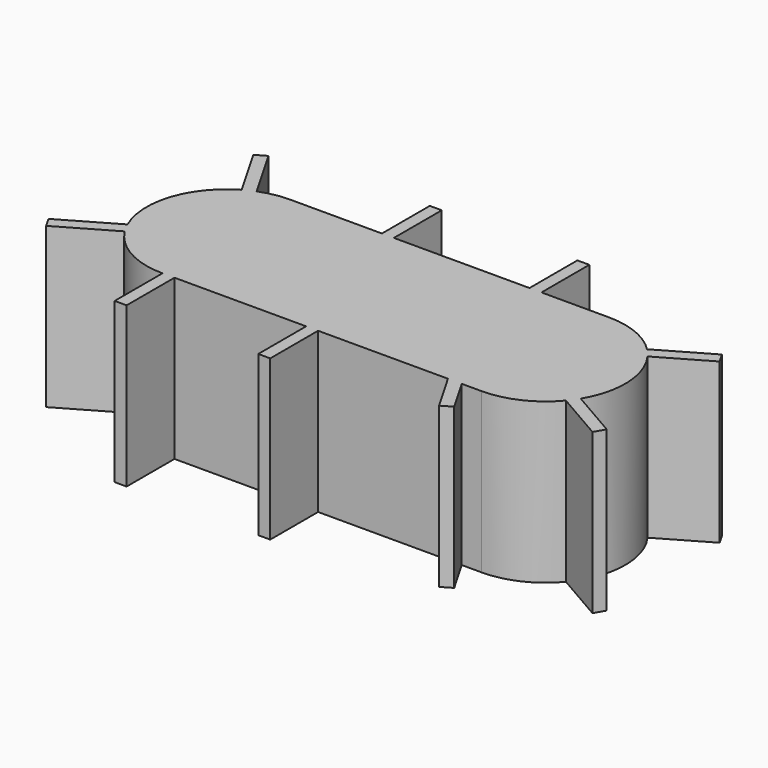
from build123d import *

# Parameters (mm, degrees)
BOX028_W               = 8
BOX028_H               = 4
BOX028_DEPTH           = 4
CYLINDER011_R          = 2
CYLINDER011_DEPTH      = 4
CYLINDER010_R          = 2
CYLINDER010_DEPTH      = 4
BOX019_W               = 0.3
BOX019_H               = 3.5
BOX019_DEPTH           = 4
BOX019_PLACEMENT_ANGLE = 240
BOX020_W               = 0.3
BOX020_H               = 3.5
BOX020_DEPTH           = 4
BOX020_PLACEMENT_ANGLE = 120
BOX021_W               = 0.3
BOX021_H               = 3.5
BOX021_DEPTH           = 4
BOX021_PLACEMENT_ANGLE = 120
BOX022_W               = 0.3
BOX022_H               = 3.5
BOX022_DEPTH           = 4
BOX023_W               = 0.3
BOX023_H               = 3.5
BOX023_DEPTH           = 4
BOX023_PLACEMENT_ANGLE = 30
BOX024_W               = 0.3
BOX024_H               = 3.5
BOX024_DEPTH           = 4
BOX024_PLACEMENT_ANGLE = 30
BOX025_W               = 0.3
BOX025_H               = 3.5
BOX025_DEPTH           = 4
BOX027_W               = 0.3
BOX027_H               = 3.5
BOX027_DEPTH           = 4
BOX026_W               = 0.3
BOX026_H               = 3.5
BOX026_DEPTH           = 4


with BuildPart() as cube028:
    # Box028 → Box028 (new body)
    with BuildSketch(Plane(origin=(0, -2, 0), x_dir=(1, 0, 0), z_dir=(0, 0, 1))):
        with Locations((4, 2)):
            Rectangle(BOX028_W, BOX028_H)
    extrude(amount=BOX028_DEPTH)


with BuildPart() as cylinder011:
    # Cylinder011 → Cylinder011 (new body)
    with BuildSketch(Plane(origin=(8, 0, 0), x_dir=(1, 0, 0), z_dir=(0, 0, 1))):
        Circle(CYLINDER011_R)
    extrude(amount=CYLINDER011_DEPTH)


with BuildPart() as fusion010:
    # Cylinder010 → Cylinder010 (new body)
    with BuildSketch(Plane.XY):
        Circle(CYLINDER010_R)
    extrude(amount=CYLINDER010_DEPTH)

    # Fusion010: union Cube028, Cylinder011
    add(cube028.part)
    add(cylinder011.part)


with BuildPart() as fusion010_1:
    # Fusion010 placement: moved
    add(fusion010.part.moved(Location((0, 0, 5))))


with BuildPart() as cube019:
    # Box019 → Box019 (new body)
    with BuildSketch(Plane.XY):
        with Locations((0.15, 1.75)):
            Rectangle(BOX019_W, BOX019_H)
    extrude(amount=BOX019_DEPTH)


with BuildPart() as cube019_1:
    # Box019 placement: moved
    add(cube019.part.moved(Location((7.892915, 0.015358, 0))).rotate(Axis((7.892915, 0.015358, 0), (0, 0, 1)), BOX019_PLACEMENT_ANGLE))


with BuildPart() as cube020:
    # Box020 → Box020 (new body)
    with BuildSketch(Plane.XY):
        with Locations((0.15, 1.75)):
            Rectangle(BOX020_W, BOX020_H)
    extrude(amount=BOX020_DEPTH)


with BuildPart() as cube020_1:
    # Box020 placement: moved
    add(cube020.part.moved(Location((10.852236, 1.891667, 0))).rotate(Axis((10.852236, 1.891667, 0), (0, 0, 1)), BOX020_PLACEMENT_ANGLE))


with BuildPart() as cube021:
    # Box021 → Box021 (new body)
    with BuildSketch(Plane.XY):
        with Locations((0.15, 1.75)):
            Rectangle(BOX021_W, BOX021_H)
    extrude(amount=BOX021_DEPTH)


with BuildPart() as cube021_1:
    # Box021 placement: moved
    add(cube021.part.moved(Location((-0.004428, -0.104039, 0))).rotate(Axis((-0.004428, -0.104039, 0), (0, 0, 1)), BOX021_PLACEMENT_ANGLE))


with BuildPart() as cube022:
    # Box022 → Box022 (new body)
    with BuildSketch(Plane(origin=(2.3, 0, 0), x_dir=(1, 0, 0), z_dir=(0, 0, 1))):
        with Locations((0.15, 1.75)):
            Rectangle(BOX022_W, BOX022_H)
    extrude(amount=BOX022_DEPTH)


with BuildPart() as cube023:
    # Box023 → Box023 (new body)
    with BuildSketch(Plane.XY):
        with Locations((0.15, 1.75)):
            Rectangle(BOX023_W, BOX023_H)
    extrude(amount=BOX023_DEPTH)


with BuildPart() as cube023_1:
    # Box023 placement: moved
    add(cube023.part.moved(Location((7.7321, -3, 0))).rotate(Axis((7.7321, -3, 0), (0, 0, 1)), BOX023_PLACEMENT_ANGLE))


with BuildPart() as cube024:
    # Box024 → Box024 (new body)
    with BuildSketch(Plane.XY):
        with Locations((0.15, 1.75)):
            Rectangle(BOX024_W, BOX024_H)
    extrude(amount=BOX024_DEPTH)


with BuildPart() as cube024_1:
    # Box024 placement: moved
    add(cube024.part.rotate(Axis((0, 0, 0), (0, 0, 1)), BOX024_PLACEMENT_ANGLE))


with BuildPart() as cube025:
    # Box025 → Box025 (new body)
    with BuildSketch(Plane(origin=(6, 0, 0), x_dir=(1, 0, 0), z_dir=(0, 0, 1))):
        with Locations((0.15, 1.75)):
            Rectangle(BOX025_W, BOX025_H)
    extrude(amount=BOX025_DEPTH)


with BuildPart() as cube027:
    # Box027 → Box027 (new body)
    with BuildSketch(Plane(origin=(3.6, -3.5, 0), x_dir=(1, 0, 0), z_dir=(0, 0, 1))):
        with Locations((0.15, 1.75)):
            Rectangle(BOX027_W, BOX027_H)
    extrude(amount=BOX027_DEPTH)


with BuildPart() as fusion013:
    # Box026 → Box026 (new body)
    with BuildSketch(Plane(origin=(0, -3.5, 0), x_dir=(1, 0, 0), z_dir=(0, 0, 1))):
        with Locations((0.15, 1.75)):
            Rectangle(BOX026_W, BOX026_H)
    extrude(amount=BOX026_DEPTH)

    # Fusion009: union Cube019, Cube020, Cube021, Cube022, Cube023, Cube024, Cube025, Cube027
    add(cube019_1.part)
    add(cube020_1.part)
    add(cube021_1.part)
    add(cube022.part)
    add(cube023_1.part)
    add(cube024_1.part)
    add(cube025.part)
    add(cube027.part)


with BuildPart() as fusion013_1:
    # Fusion009 placement: moved
    add(fusion013.part.moved(Location((0, 0, 5))))

    # Fusion013: union Fusion010
    add(fusion010_1.part)


solid = fusion013_1.part
